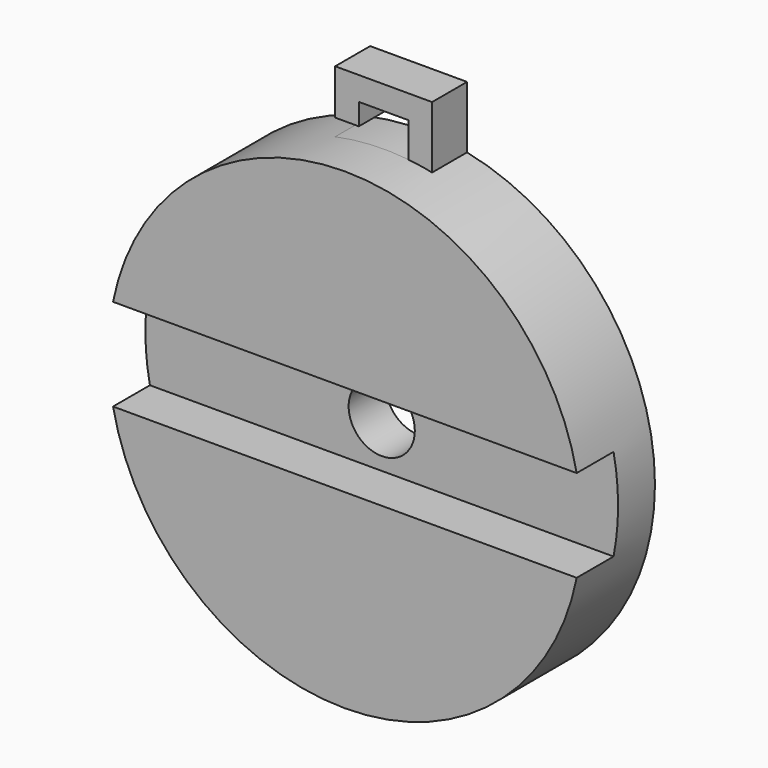
from build123d import *

# Parameters (mm, degrees)
F0_R     = 20
F1_DEPTH = 7.8
F3_DEPTH = 3.9
F4_R     = 2.8
F5_DEPTH = 3.901
F6_W     = 8.2
F6_H     = 5.25
F7_DEPTH = 3.7
F9_DEPTH = 3.701


with BuildPart() as f1:
    # F0 (on Front) → F1 (new body)
    with BuildSketch(Plane.XZ):
        Circle(F0_R)
        Circle(F0_R)
    extrude(amount=-F1_DEPTH)

    # F2 (on face) → F3 (cut)
    with BuildSketch(Plane.XZ):
        with BuildLine():
            Line((19.6160648449, 3.9), (-19.6160648449, 3.9))
            ThreePointArc((-19.6160648449, 3.9), (-19.903784777, 1.9594263321), (-20, 0))
            ThreePointArc((-20, 0), (-19.903784777, -1.9594263321), (-19.6160648449, -3.9))
            Line((-19.6160648449, -3.9), (19.6160648449, -3.9))
            ThreePointArc((19.6160648449, -3.9), (19.903784777, -1.9594263321), (20, 0))
            ThreePointArc((20, 0), (19.903784777, 1.9594263321), (19.6160648449, 3.9))
        make_face()
    extrude(amount=-F3_DEPTH, mode=Mode.SUBTRACT)

    # F4 (on face) → F5 (cut, through all)
    with BuildSketch(Plane.XZ.offset(-3.9)):
        Circle(F4_R)
    extrude(amount=-F5_DEPTH, mode=Mode.SUBTRACT)

    # F6 (on face) → F7 (join)
    with BuildSketch(Plane(origin=(0, 7.8, 0), x_dir=(-1, 0, 0), z_dir=(0, 1, 0))):
        with Locations((0, 22.2002394621)):
            Rectangle(F6_W, F6_H)
    extrude(amount=-F7_DEPTH)

    # F8 (on face) → F9 (cut, through all)
    with BuildSketch(Plane.XZ.offset(-4.1)):
        with BuildLine():
            Line((-2.1, 22.8252394621), (-2.1, 22.2002394621))
            Line((-2.1, 22.2002394621), (-2.1, 21))
            Line((-2.1, 21), (-4.1, 21))
            Line((-4.1, 21), (-4.1, 19.5752394621))
            ThreePointArc((-4.1, 19.5752394621), (-1.012265376, 19.9743665434), (2.1, 19.8894444367))
            Line((2.1, 19.8894444367), (2.1, 22.8252394621))
            Line((2.1, 22.8252394621), (-2.1, 22.8252394621))
        make_face()
    extrude(amount=-F9_DEPTH, mode=Mode.SUBTRACT)


solid = f1.part
